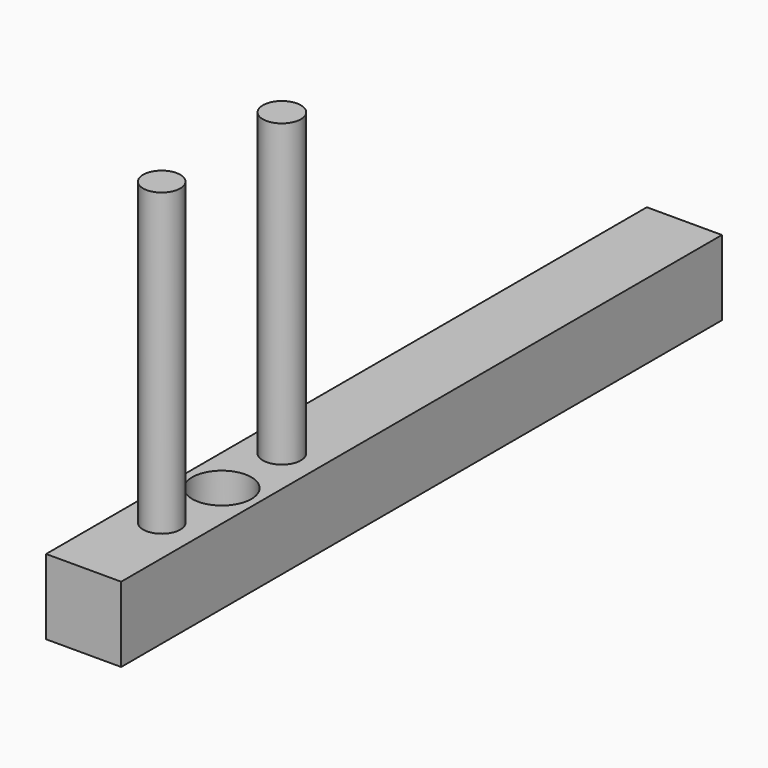
from build123d import *

# Parameters (mm, degrees)
F0_W     = 6.35
F0_H     = 63.5
F0_R     = 2.5
F1_DEPTH = 6.35
F2_R     = 1.605891
F2_R_2   = 1.572411
F3_DEPTH = 25.4


with BuildPart() as f1:
    # F0 (on Top) → F1 (new body)
    with BuildSketch(Plane.XY):
        Rectangle(F0_W, F0_H)
        with Locations((0, -17.145)):
            Circle(F0_R, mode=Mode.SUBTRACT)
    extrude(amount=F1_DEPTH)

    # F2 (on face) → F3 (join)
    with BuildSketch(Plane.XY.offset(6.35)):
        with Locations((0, -10.795)):
            Circle(F2_R)
        with Locations((0, -23.495)):
            Circle(F2_R_2)
    extrude(amount=F3_DEPTH)


solid = f1.part
